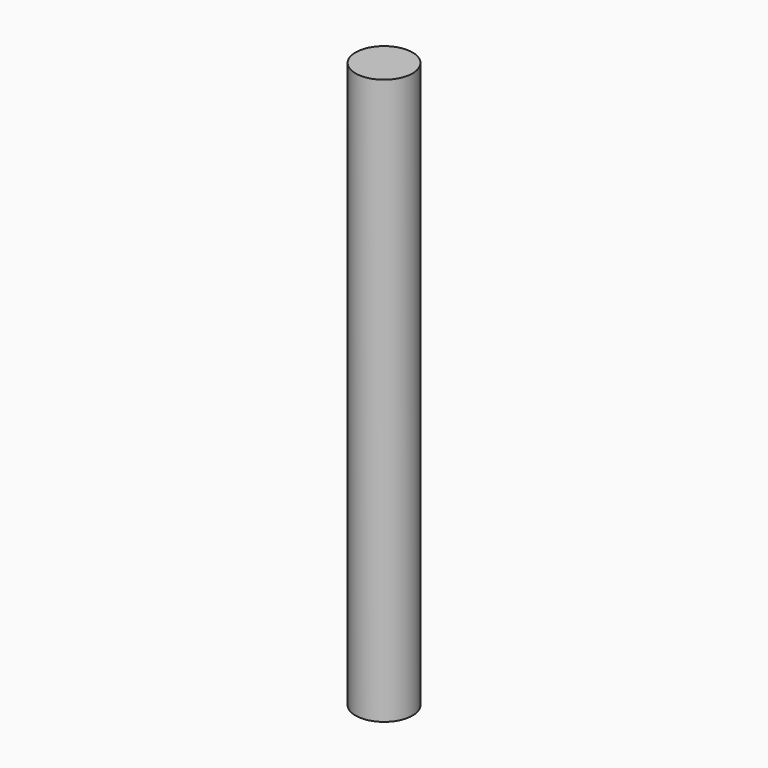
from build123d import *

# Parameters (mm, degrees)
F1_R     = 76.673939
F2_DEPTH = 1522.652149


with BuildPart() as f2:
    # F1 (on face) → F2 (new body)
    with BuildSketch(Plane.XY):
        with Locations((1.788914, -6.063522)):
            Circle(F1_R)
    extrude(amount=F2_DEPTH)


solid = f2.part
